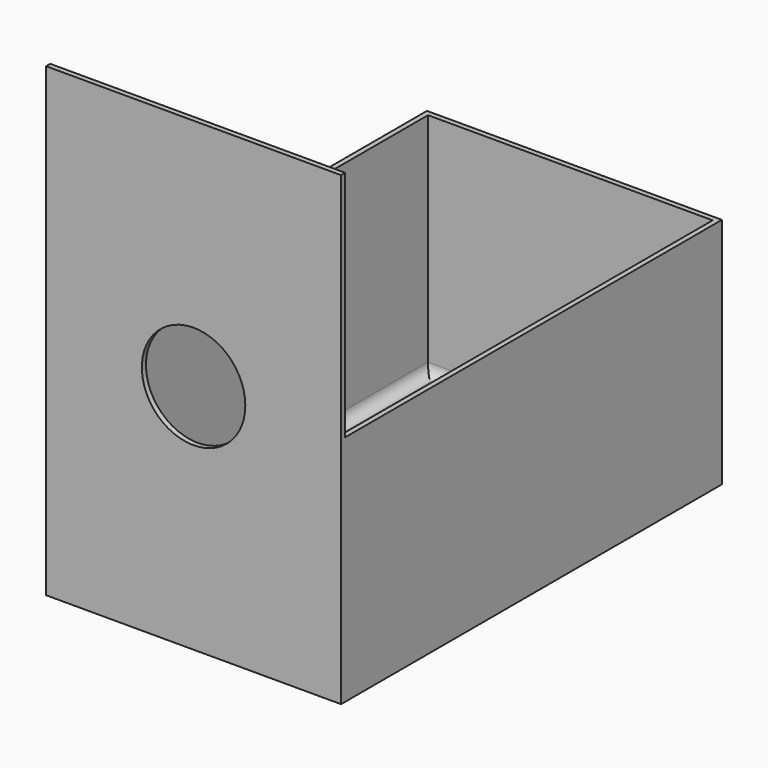
from build123d import *

# Parameters (mm, degrees)
F0_W     = 57
F0_H     = 92
F1_DEPTH = 90
F2_W     = 55
F2_H     = 90
F3_DEPTH = 89
F4_W     = 57
F4_H     = 91
F5_DEPTH = 45
F6_R     = 10
F7_DEPTH = 1
F8_R     = 2


with BuildPart() as f1:
    # F0 (on Top) → F1 (new body)
    with BuildSketch(Plane.XY):
        Rectangle(F0_W, F0_H)
    extrude(amount=F1_DEPTH)

    # F2 (on face) → F3 (cut)
    with BuildSketch(Plane.XY.offset(90)):
        Rectangle(F2_W, F2_H)
    extrude(amount=-F3_DEPTH, mode=Mode.SUBTRACT)

    # F4 (on face) → F5 (cut)
    with BuildSketch(Plane.XY.offset(90)):
        with Locations((0, 0.5)):
            Rectangle(F4_W, F4_H)
    extrude(amount=-F5_DEPTH, mode=Mode.SUBTRACT)

    # F6 (on face) → F7 (cut)
    with BuildSketch(Plane.XZ.offset(46)):
        with Locations((0, 44.787799)):
            Circle(F6_R)
    extrude(amount=-F7_DEPTH, mode=Mode.SUBTRACT)

    # F8
    f8_edges = [f1.edges().sort_by_distance(p)[0] for p in [
        (27.5, 0, 1),
        (0, 45, 1),
        (-27.5, 0, 1),
        (0, -45, 1),
    ]]
    fillet(f8_edges, radius=F8_R)


solid = f1.part
